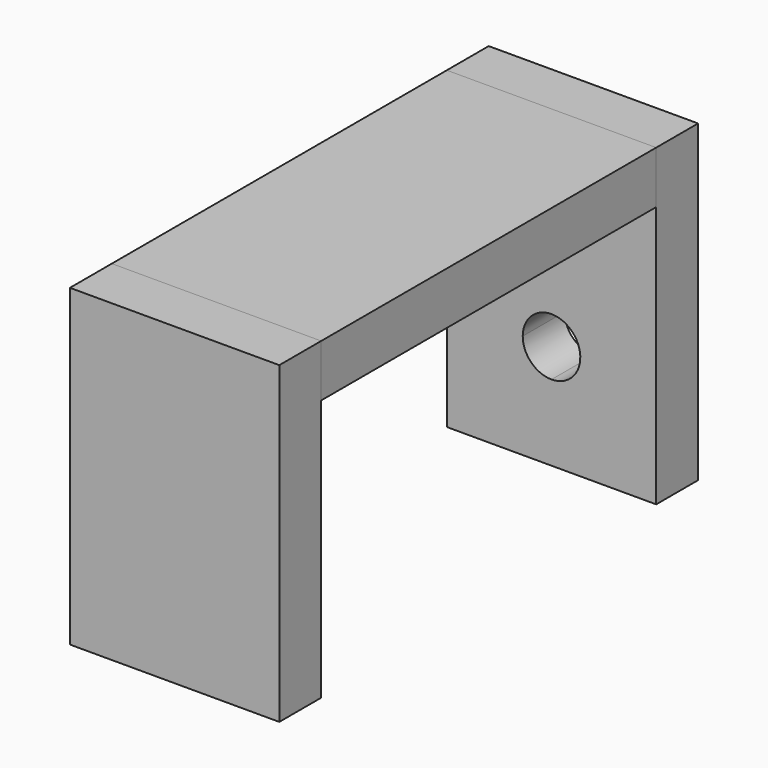
from build123d import *

# Parameters (mm, degrees)
F0_W     = 50.8
F0_H     = 101.6
F1_DEPTH = 12.7
F2_W     = 50.8
F2_H     = 12.7
F3_DEPTH = 76.2
F5_DEPTH = 120.65


with BuildPart() as f1:
    # F0 (on Top) → F1 (new body)
    with BuildSketch(Plane.XY):
        Rectangle(F0_W, F0_H)
    extrude(amount=F1_DEPTH)


with BuildPart() as f3:
    # F2 (on face) → F3 (new body)
    with BuildSketch(Plane.XY.offset(12.7)):
        with Locations((0, 57.15)):
            Rectangle(F2_W, F2_H)
        with Locations((0, -57.15)):
            Rectangle(F2_W, F2_H)
    extrude(amount=-F3_DEPTH)

    # F4 (on face) → F5 (cut)
    with BuildSketch(Plane(origin=(0, 63.5, 0), x_dir=(-1, 0, 0), z_dir=(0, 1, 0))):
        with BuildLine():
            ThreePointArc((0, -45.085), (4.939141, -43.039141), (6.985, -38.1))
            ThreePointArc((6.985, -38.1), (-4.939141, -33.160859), (0, -45.085))
        make_face()
    extrude(amount=-F5_DEPTH, mode=Mode.SUBTRACT)


solid = Compound([f1.part, f3.part])
